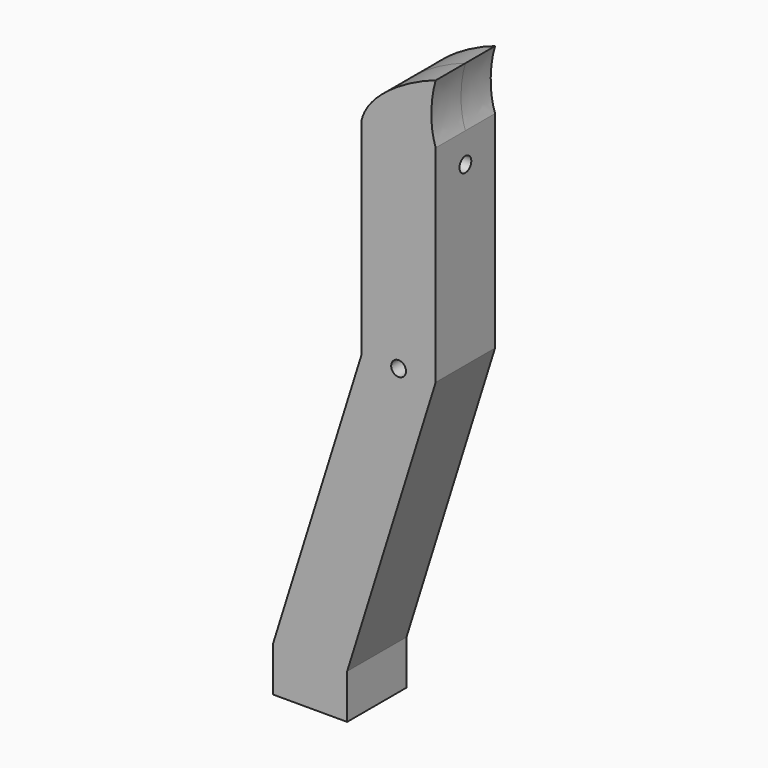
from build123d import *

# Parameters (mm, degrees)
F0_R     = 0.635
F1_DEPTH = 3.175
F3_D     = 1.27


with BuildPart() as f1:
    # F0 (on Front) → F1 (new body, symmetric)
    with BuildSketch(Plane.XZ):
        with BuildLine():
            add(Edge.make_bspline(
                [(-3.175, 17.666773), (-2.571672, 20.180642), (1.264461, 22.143445), (3.175, 22.746773)],
                knots=[0, 0, 0, 0, 8.131968, 8.131968, 8.131968, 8.131968], degree=3))
            Line((-3.175, 17.666773), (3.175, 17.666773))
            add(Edge.make_bspline(
                [(3.175, 17.666773), (2.6296, 19.171382), (2.730269, 21.302576), (3.175, 22.746773)],
                knots=[0, 0, 0, 0, 5.08, 5.08, 5.08, 5.08], degree=3))
        make_face()
        Polygon((3.175, 17.666773), (-3.175, 17.666773), (-3.175, 0), (-10.752992, -24.243227), (-4.402992, -24.243227), (3.175, 0), align=None)
        Circle(F0_R, mode=Mode.SUBTRACT)
        Polygon((-4.402992, -24.243227), (-10.752992, -24.243227), (-10.752992, -28.053227), (-4.402992, -28.053227), (-4.402992, -26.148227), align=None)
    extrude(amount=F1_DEPTH, both=True)

    # F3 (through all)
    with Locations(Plane.YZ.offset(3.175)):
        with Locations((0, 15.126773)):
            Hole(F3_D / 2)


solid = f1.part
